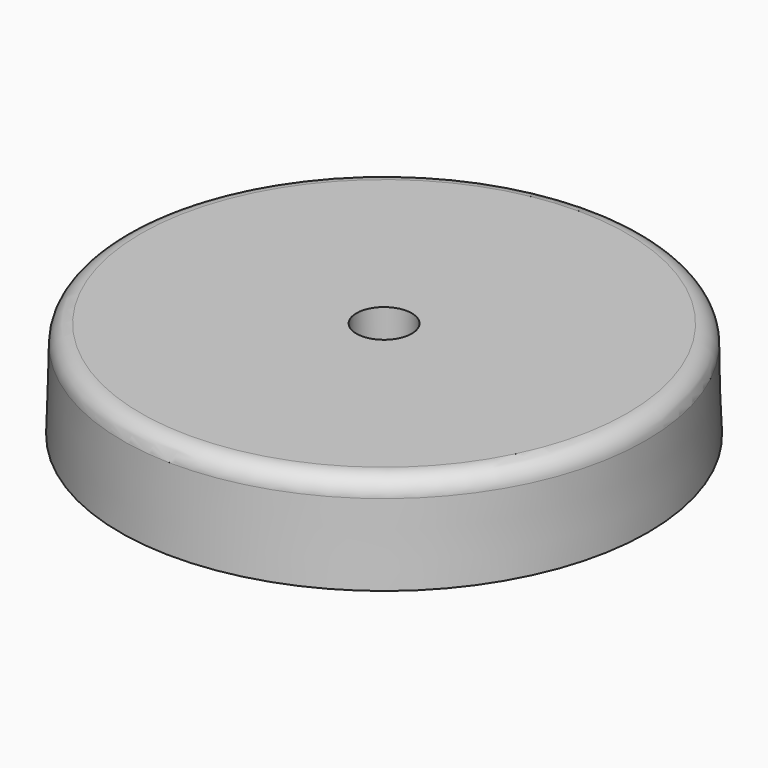
from build123d import *

# Parameters (mm, degrees)
F3_D     = 3.7973
F4_R     = 4.445
F4_R_2   = 1.89865
F5_DEPTH = 3.81
F6_R     = 1.27


with BuildPart() as f1:
    # F0 (on Front) → F1 (revolve)
    with BuildSketch(Plane.XZ):
        Polygon((17.9125677648, 6.731), (0, 6.731), (0, 0), (16.4465, 0), (16.4465, 3.81), (16.8275, 3.81), (16.8275, 0), (18.0975, 0), align=None)
    revolve(axis=Axis((0, 0, 3.3655), (0, 0, -1)))

    # F3 (through all)
    with Locations(Plane.XY.offset(6.731)):
        with Locations((0, 0)):
            Hole(F3_D / 2)

    # F4 (on face) → F5 (cut)
    with BuildSketch(Plane(origin=(0, 0, 0), x_dir=(1, 0, 0), z_dir=(0, 0, -1))):
        Circle(F4_R)
        Circle(F4_R_2, mode=Mode.SUBTRACT)
    extrude(amount=-F5_DEPTH, mode=Mode.SUBTRACT)

    # F6
    f6_edges = [f1.edges().sort_by_distance(p)[0] for p in [
        (-17.912568, 0, 6.731),
    ]]
    fillet(f6_edges, radius=F6_R)


solid = f1.part
